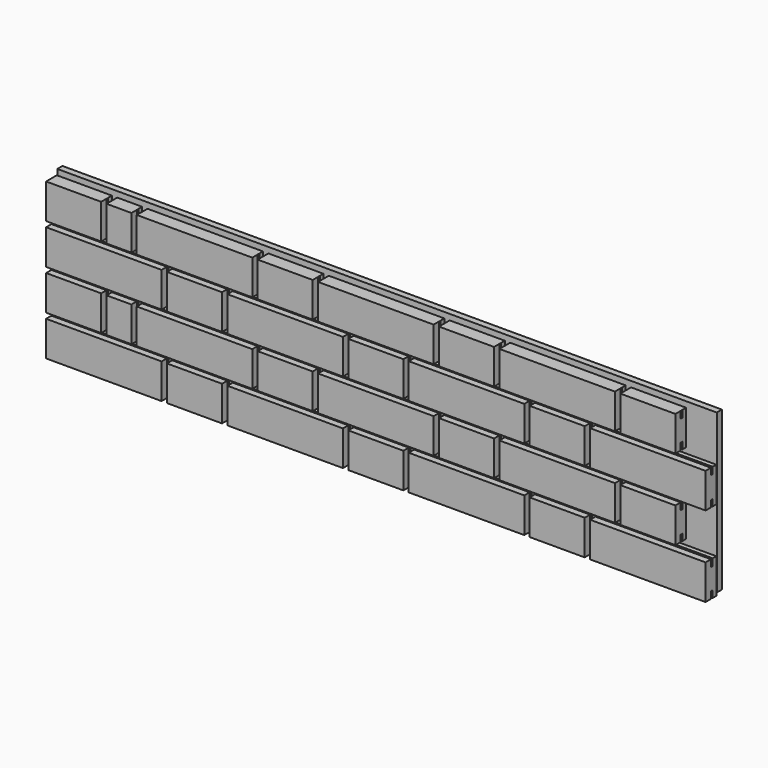
from build123d import *

# Parameters (mm, degrees)
F0_W     = 102.5
F0_H     = 65
F1_DEPTH = 25
F0_W_2   = 46.3
F0_W_3   = 215
F3_W     = 4
F3_H     = 35
F3_H_2   = 12.7475997806
F4_DEPTH = 1227.501
F5_W     = 12
F5_H     = 295
F6_DEPTH = 1227.5


with BuildPart() as f1:
    # F0 (on Front) → F1 (new body)
    with BuildSketch(Plane.XZ):
        with Locations((-2251.9153881073, 257.5)):
            Rectangle(F0_W, F0_H)
    extrude(amount=F1_DEPTH)


with BuildPart() as f1b:
    # F0 (on Front) → F1, piece 2 (new body)
    with BuildSketch(Plane.XZ):
        with Locations((-2167.5153881073, 257.5)):
            Rectangle(F0_W_2, F0_H)
    extrude(amount=F1_DEPTH)


with BuildPart() as f1c:
    # F0 (on Front) → F1, piece 3 (new body)
    with BuildSketch(Plane.XZ):
        with Locations((-2026.9153881073, 257.5)):
            Rectangle(F0_W_3, F0_H)
    extrude(amount=F1_DEPTH)


with BuildPart() as f1d:
    # F0 (on Front) → F1, piece 4 (new body)
    with BuildSketch(Plane.XZ):
        with Locations((-1858.1653881073, 257.5)):
            Rectangle(F0_W, F0_H)
    extrude(amount=F1_DEPTH)


with BuildPart() as f1e:
    # F0 (on Front) → F1, piece 5 (new body)
    with BuildSketch(Plane.XZ):
        with Locations((-1689.4153881073, 257.5)):
            Rectangle(F0_W_3, F0_H)
    extrude(amount=F1_DEPTH)


with BuildPart() as f1f:
    # F0 (on Front) → F1, piece 6 (new body)
    with BuildSketch(Plane.XZ):
        with Locations((-1520.6653881073, 257.5)):
            Rectangle(F0_W, F0_H)
    extrude(amount=F1_DEPTH)


with BuildPart() as f1g:
    # F0 (on Front) → F1, piece 7 (new body)
    with BuildSketch(Plane.XZ):
        with Locations((-1351.9153881073, 257.5)):
            Rectangle(F0_W_3, F0_H)
    extrude(amount=F1_DEPTH)


with BuildPart() as f1h:
    # F0 (on Front) → F1, piece 8 (new body)
    with BuildSketch(Plane.XZ):
        with Locations((-1183.1653881073, 257.5)):
            Rectangle(F0_W, F0_H)
    extrude(amount=F1_DEPTH)


with BuildPart() as f1i:
    # F0 (on Front) → F1, piece 9 (new body)
    with BuildSketch(Plane.XZ):
        with Locations((-1183.1653881073, 182.5)):
            Rectangle(F0_W_3, F0_H)
    extrude(amount=F1_DEPTH)


with BuildPart() as f1j:
    # F0 (on Front) → F1, piece 10 (new body)
    with BuildSketch(Plane.XZ):
        with Locations((-1351.9153881073, 182.5)):
            Rectangle(F0_W, F0_H)
    extrude(amount=F1_DEPTH)


with BuildPart() as f1k:
    # F0 (on Front) → F1, piece 11 (new body)
    with BuildSketch(Plane.XZ):
        with Locations((-1520.6653881073, 182.5)):
            Rectangle(F0_W_3, F0_H)
    extrude(amount=F1_DEPTH)


with BuildPart() as f1l:
    # F0 (on Front) → F1, piece 12 (new body)
    with BuildSketch(Plane.XZ):
        with Locations((-1689.4153881073, 182.5)):
            Rectangle(F0_W, F0_H)
    extrude(amount=F1_DEPTH)


with BuildPart() as f1m:
    # F0 (on Front) → F1, piece 13 (new body)
    with BuildSketch(Plane.XZ):
        with Locations((-1858.1653881073, 182.5)):
            Rectangle(F0_W_3, F0_H)
    extrude(amount=F1_DEPTH)


with BuildPart() as f1n:
    # F0 (on Front) → F1, piece 14 (new body)
    with BuildSketch(Plane.XZ):
        with Locations((-2026.9153881073, 182.5)):
            Rectangle(F0_W, F0_H)
    extrude(amount=F1_DEPTH)


with BuildPart() as f1o:
    # F0 (on Front) → F1, piece 15 (new body)
    with BuildSketch(Plane.XZ):
        with Locations((-2195.6653881073, 182.5)):
            Rectangle(F0_W_3, F0_H)
    extrude(amount=F1_DEPTH)


with BuildPart() as f1p:
    # F0 (on Front) → F1, piece 16 (new body)
    with BuildSketch(Plane.XZ):
        with Locations((-2251.9153881073, 107.5)):
            Rectangle(F0_W, F0_H)
    extrude(amount=F1_DEPTH)


with BuildPart() as f1q:
    # F0 (on Front) → F1, piece 17 (new body)
    with BuildSketch(Plane.XZ):
        with Locations((-2167.5153881073, 107.5)):
            Rectangle(F0_W_2, F0_H)
    extrude(amount=F1_DEPTH)


with BuildPart() as f1r:
    # F0 (on Front) → F1, piece 18 (new body)
    with BuildSketch(Plane.XZ):
        with Locations((-2026.9153881073, 107.5)):
            Rectangle(F0_W_3, F0_H)
    extrude(amount=F1_DEPTH)


with BuildPart() as f1s:
    # F0 (on Front) → F1, piece 19 (new body)
    with BuildSketch(Plane.XZ):
        with Locations((-1858.1653881073, 107.5)):
            Rectangle(F0_W, F0_H)
    extrude(amount=F1_DEPTH)


with BuildPart() as f1t:
    # F0 (on Front) → F1, piece 20 (new body)
    with BuildSketch(Plane.XZ):
        with Locations((-1689.4153881073, 107.5)):
            Rectangle(F0_W_3, F0_H)
    extrude(amount=F1_DEPTH)


with BuildPart() as f1u:
    # F0 (on Front) → F1, piece 21 (new body)
    with BuildSketch(Plane.XZ):
        with Locations((-1520.6653881073, 107.5)):
            Rectangle(F0_W, F0_H)
    extrude(amount=F1_DEPTH)


with BuildPart() as f1v:
    # F0 (on Front) → F1, piece 22 (new body)
    with BuildSketch(Plane.XZ):
        with Locations((-1351.9153881073, 107.5)):
            Rectangle(F0_W_3, F0_H)
    extrude(amount=F1_DEPTH)


with BuildPart() as f1w:
    # F0 (on Front) → F1, piece 23 (new body)
    with BuildSketch(Plane.XZ):
        with Locations((-1183.1653881073, 107.5)):
            Rectangle(F0_W, F0_H)
    extrude(amount=F1_DEPTH)


with BuildPart() as f1x:
    # F0 (on Front) → F1, piece 24 (new body)
    with BuildSketch(Plane.XZ):
        with Locations((-1183.1653881073, 32.5)):
            Rectangle(F0_W_3, F0_H)
    extrude(amount=F1_DEPTH)


with BuildPart() as f1y:
    # F0 (on Front) → F1, piece 25 (new body)
    with BuildSketch(Plane.XZ):
        with Locations((-1351.9153881073, 32.5)):
            Rectangle(F0_W, F0_H)
    extrude(amount=F1_DEPTH)


with BuildPart() as f1z:
    # F0 (on Front) → F1, piece 26 (new body)
    with BuildSketch(Plane.XZ):
        with Locations((-1520.6653881073, 32.5)):
            Rectangle(F0_W_3, F0_H)
    extrude(amount=F1_DEPTH)


with BuildPart() as f1ba:
    # F0 (on Front) → F1, piece 27 (new body)
    with BuildSketch(Plane.XZ):
        with Locations((-1689.4153881073, 32.5)):
            Rectangle(F0_W, F0_H)
    extrude(amount=F1_DEPTH)


with BuildPart() as f1bb:
    # F0 (on Front) → F1, piece 28 (new body)
    with BuildSketch(Plane.XZ):
        with Locations((-1858.1653881073, 32.5)):
            Rectangle(F0_W_3, F0_H)
    extrude(amount=F1_DEPTH)


with BuildPart() as f1bc:
    # F0 (on Front) → F1, piece 29 (new body)
    with BuildSketch(Plane.XZ):
        with Locations((-2026.9153881073, 32.5)):
            Rectangle(F0_W, F0_H)
    extrude(amount=F1_DEPTH)


with BuildPart() as f1bd:
    # F0 (on Front) → F1, piece 30 (new body)
    with BuildSketch(Plane.XZ):
        with Locations((-2195.6653881073, 32.5)):
            Rectangle(F0_W_3, F0_H)
    extrude(amount=F1_DEPTH)


with BuildPart() as f4_tool:
    # F3 (on offset) → F4 (new body, through all)
    with BuildSketch(Plane.YZ.offset(-1075.6653881073)):
        with Locations((-10.5, 69.761159718)):
            Rectangle(F3_W, F3_H)
        with Locations((-10.5, 144.7860401869)):
            Rectangle(F3_W, F3_H)
        with Locations((-10.5, 220.4239896536)):
            Rectangle(F3_W, F3_H)
        with Locations((-10.5000001863, 6.3737998903)):
            Rectangle(F3_W, F3_H_2)
        with Locations((-10.5, 283.5799101097)):
            Rectangle(F3_W, F3_H_2)
    extrude(amount=-F4_DEPTH)


with BuildPart() as f1_1:
    add(f1.part)

    # F4: cut by f4_tool
    add(f4_tool.part, mode=Mode.SUBTRACT)


with BuildPart() as f1b_1:
    add(f1b.part)

    # F4: cut by f4_tool
    add(f4_tool.part, mode=Mode.SUBTRACT)


with BuildPart() as f1c_1:
    add(f1c.part)

    # F4: cut by f4_tool
    add(f4_tool.part, mode=Mode.SUBTRACT)


with BuildPart() as f1d_1:
    add(f1d.part)

    # F4: cut by f4_tool
    add(f4_tool.part, mode=Mode.SUBTRACT)


with BuildPart() as f1e_1:
    add(f1e.part)

    # F4: cut by f4_tool
    add(f4_tool.part, mode=Mode.SUBTRACT)


with BuildPart() as f1f_1:
    add(f1f.part)

    # F4: cut by f4_tool
    add(f4_tool.part, mode=Mode.SUBTRACT)


with BuildPart() as f1g_1:
    add(f1g.part)

    # F4: cut by f4_tool
    add(f4_tool.part, mode=Mode.SUBTRACT)


with BuildPart() as f1h_1:
    add(f1h.part)

    # F4: cut by f4_tool
    add(f4_tool.part, mode=Mode.SUBTRACT)


with BuildPart() as f1i_1:
    add(f1i.part)

    # F4: cut by f4_tool
    add(f4_tool.part, mode=Mode.SUBTRACT)


with BuildPart() as f1j_1:
    add(f1j.part)

    # F4: cut by f4_tool
    add(f4_tool.part, mode=Mode.SUBTRACT)


with BuildPart() as f1k_1:
    add(f1k.part)

    # F4: cut by f4_tool
    add(f4_tool.part, mode=Mode.SUBTRACT)


with BuildPart() as f1l_1:
    add(f1l.part)

    # F4: cut by f4_tool
    add(f4_tool.part, mode=Mode.SUBTRACT)


with BuildPart() as f1m_1:
    add(f1m.part)

    # F4: cut by f4_tool
    add(f4_tool.part, mode=Mode.SUBTRACT)


with BuildPart() as f1n_1:
    add(f1n.part)

    # F4: cut by f4_tool
    add(f4_tool.part, mode=Mode.SUBTRACT)


with BuildPart() as f1o_1:
    add(f1o.part)

    # F4: cut by f4_tool
    add(f4_tool.part, mode=Mode.SUBTRACT)


with BuildPart() as f1p_1:
    add(f1p.part)

    # F4: cut by f4_tool
    add(f4_tool.part, mode=Mode.SUBTRACT)


with BuildPart() as f1q_1:
    add(f1q.part)

    # F4: cut by f4_tool
    add(f4_tool.part, mode=Mode.SUBTRACT)


with BuildPart() as f1r_1:
    add(f1r.part)

    # F4: cut by f4_tool
    add(f4_tool.part, mode=Mode.SUBTRACT)


with BuildPart() as f1s_1:
    add(f1s.part)

    # F4: cut by f4_tool
    add(f4_tool.part, mode=Mode.SUBTRACT)


with BuildPart() as f1t_1:
    add(f1t.part)

    # F4: cut by f4_tool
    add(f4_tool.part, mode=Mode.SUBTRACT)


with BuildPart() as f1u_1:
    add(f1u.part)

    # F4: cut by f4_tool
    add(f4_tool.part, mode=Mode.SUBTRACT)


with BuildPart() as f1v_1:
    add(f1v.part)

    # F4: cut by f4_tool
    add(f4_tool.part, mode=Mode.SUBTRACT)


with BuildPart() as f1w_1:
    add(f1w.part)

    # F4: cut by f4_tool
    add(f4_tool.part, mode=Mode.SUBTRACT)


with BuildPart() as f1x_1:
    add(f1x.part)

    # F4: cut by f4_tool
    add(f4_tool.part, mode=Mode.SUBTRACT)


with BuildPart() as f1y_1:
    add(f1y.part)

    # F4: cut by f4_tool
    add(f4_tool.part, mode=Mode.SUBTRACT)


with BuildPart() as f1z_1:
    add(f1z.part)

    # F4: cut by f4_tool
    add(f4_tool.part, mode=Mode.SUBTRACT)


with BuildPart() as f1ba_1:
    add(f1ba.part)

    # F4: cut by f4_tool
    add(f4_tool.part, mode=Mode.SUBTRACT)


with BuildPart() as f1bb_1:
    add(f1bb.part)

    # F4: cut by f4_tool
    add(f4_tool.part, mode=Mode.SUBTRACT)


with BuildPart() as f1bc_1:
    add(f1bc.part)

    # F4: cut by f4_tool
    add(f4_tool.part, mode=Mode.SUBTRACT)


with BuildPart() as f1bd_1:
    add(f1bd.part)

    # F4: cut by f4_tool
    add(f4_tool.part, mode=Mode.SUBTRACT)


with BuildPart() as f6:
    # F5 (on offset) → F6 (new body)
    with BuildSketch(Plane.YZ.offset(-1075.6653881073)):
        with Locations((7, 152.5)):
            Rectangle(F5_W, F5_H)
    extrude(amount=-F6_DEPTH)


solid = Compound([f1_1.part, f1b_1.part, f1c_1.part, f1d_1.part, f1e_1.part, f1f_1.part, f1g_1.part, f1h_1.part, f1i_1.part, f1j_1.part, f1k_1.part, f1l_1.part, f1m_1.part, f1n_1.part, f1o_1.part, f1p_1.part, f1q_1.part, f1r_1.part, f1s_1.part, f1t_1.part, f1u_1.part, f1v_1.part, f1w_1.part, f1x_1.part, f1y_1.part, f1z_1.part, f1ba_1.part, f1bb_1.part, f1bc_1.part, f1bd_1.part, f6.part])
